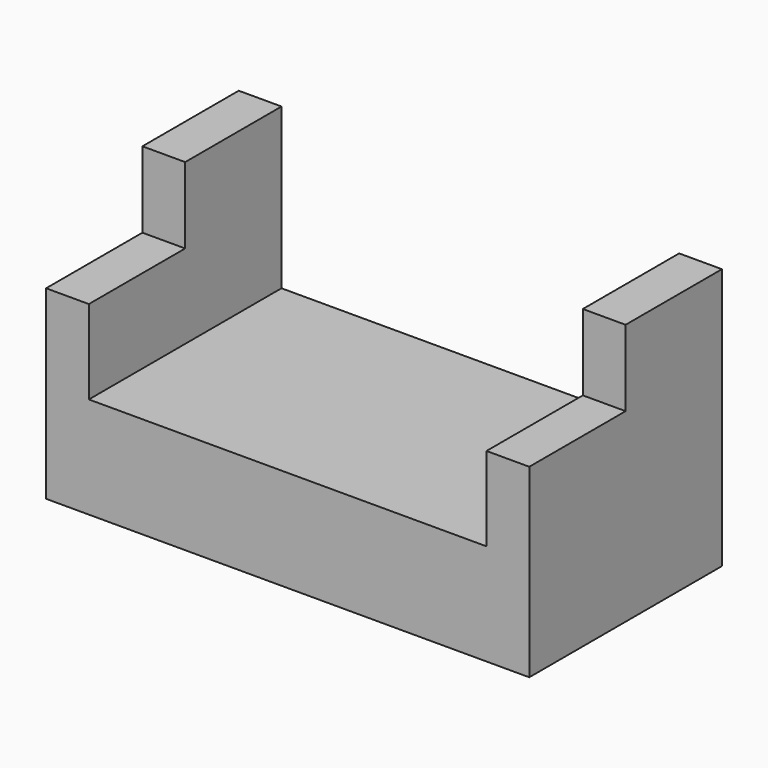
from build123d import *

# Parameters (mm, degrees)
F1_DEPTH = 38
F3_DEPTH = 38


with BuildPart() as f1:
    # F0 (on Front) → F1 (new body)
    with BuildSketch(Plane.XZ):
        Polygon((-152.5, 0), (0, 0), (0, 82.5), (-13.5, 82.5), (-13.5, 32), (-139, 32), (-139, 82.5), (-152.5, 82.5), align=None)
    extrude(amount=F1_DEPTH)

    # F2 (on face) → F3 (join)
    with BuildSketch(Plane.XZ.offset(38)):
        Polygon((-152.5, 58.5), (-152.5, 0), (0, 0), (0, 58.5), (-13.5, 58.5), (-13.5, 32), (-139, 32), (-139, 58.5), align=None)
    extrude(amount=F3_DEPTH)


solid = f1.part
